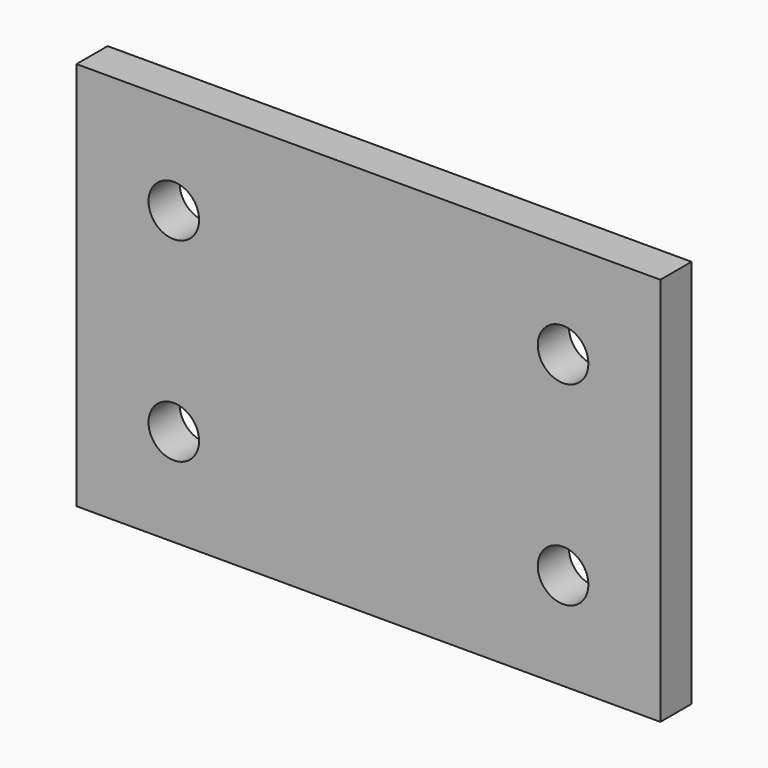
from build123d import *

# Parameters (mm, degrees)
F0_W     = 150
F0_H     = 100
F0_R     = 6.5
F1_DEPTH = 5


with BuildPart() as f1:
    # F0 (on Front) → F1 (new body, symmetric)
    with BuildSketch(Plane.XZ):
        Rectangle(F0_W, F0_H)
        with Locations((-50, -25)):
            Circle(F0_R, mode=Mode.SUBTRACT)
        with Locations((50, -25)):
            Circle(F0_R, mode=Mode.SUBTRACT)
        with Locations((-50, 25)):
            Circle(F0_R, mode=Mode.SUBTRACT)
        with Locations((50, 25)):
            Circle(F0_R, mode=Mode.SUBTRACT)
    extrude(amount=F1_DEPTH, both=True)


solid = f1.part
